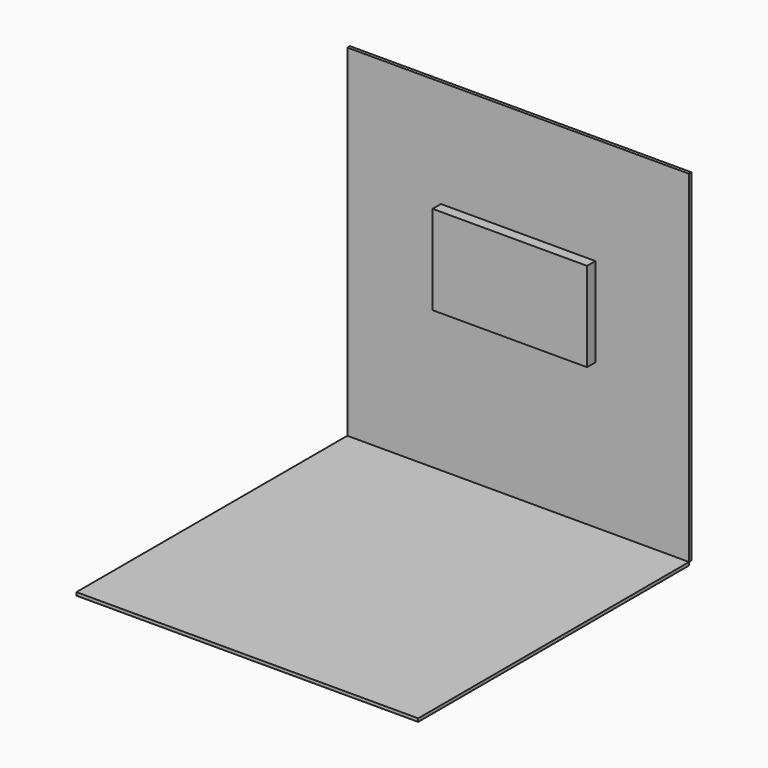
from build123d import *

# Parameters (mm, degrees)
F0_W     = 1239.52
F0_H     = 716.28
F1_DEPTH = 83.82
F2_W     = 2743.2
F2_H     = 2743.2
F2_W_2   = 1239.52
F2_H_2   = 716.28
F3_DEPTH = 25.4
F4_W     = 2743.2
F4_H     = 2717.8
F5_DEPTH = 25.4


with BuildPart() as f1:
    # F0 (on Front) → F1 (new body)
    with BuildSketch(Plane.XZ):
        Rectangle(F0_W, F0_H)
    extrude(amount=F1_DEPTH)


with BuildPart() as f3:
    # F2 (on face) → F3 (new body)
    with BuildSketch(Plane(origin=(0, 0, 0), x_dir=(-1, 0, 0), z_dir=(0, 1, 0))):
        with Locations((0, -152.4)):
            Rectangle(F2_W, F2_H)
        Rectangle(F2_W_2, F2_H_2, mode=Mode.SUBTRACT)
    extrude(amount=F3_DEPTH)


with BuildPart() as f5:
    # F4 (on face) → F5 (new body)
    with BuildSketch(Plane(origin=(0, 0, -1524), x_dir=(1, 0, 0), z_dir=(0, 0, -1))):
        with Locations((0, 1358.9)):
            Rectangle(F4_W, F4_H)
    extrude(amount=F5_DEPTH)


solid = Compound([f1.part, f3.part, f5.part])
